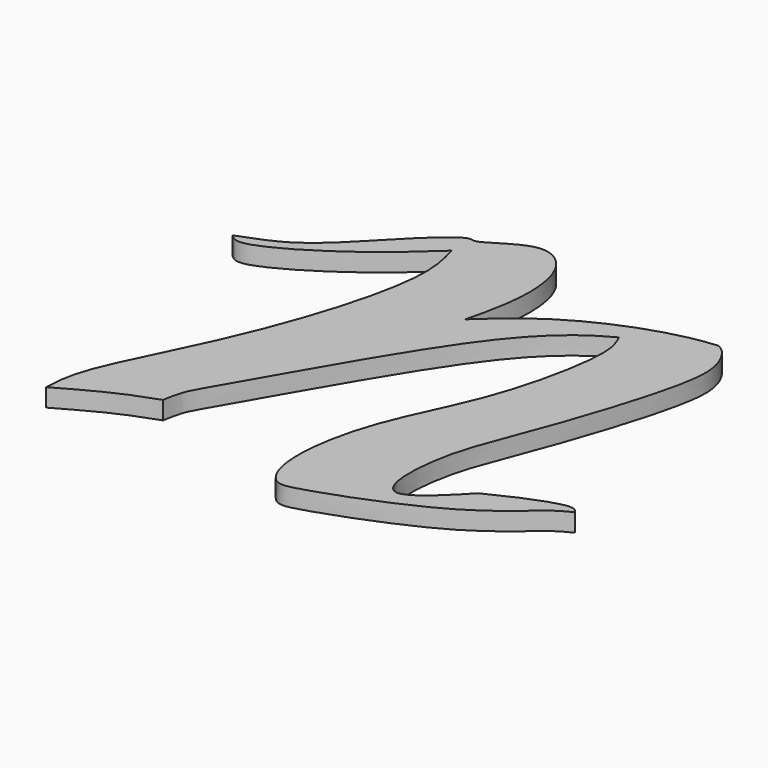
from build123d import *

# Parameters (mm, degrees)
F1_DEPTH = 1.27


with BuildPart() as f1:
    # F0 (on Top) → F1 (new body)
    with BuildSketch(Plane.XY):
        with BuildLine():
            add(Edge.make_bspline(
                [(-52.4508655071, 6.1483993195), (-51.2502191119, 6.5833559306), (-48.610067998, 7.5398000476), (-45.1537688991, 11.5657016835), (-42.1221285518, 14.2639547296), (-41.4797872222, 13.6589606847), (-38.3325889337, 16.3361943188), (-35.5940023997, 14.2825197488), (-35.261365319, 10.1330341314), (-35.8770305222, 7.5959185556), (-36.1851528287, 6.3261669129)],
                knots=[0, 0, 0, 0, 0.1372868732, 0.3018857948, 0.4320781684, 0.4826123225, 0.6113012585, 0.7243305254, 0.8620355448, 1, 1, 1, 1], degree=3))
            add(Edge.make_bspline(
                [(-41.8784059584, 12.2591648251), (-43.2035777029, 11.0424745594), (-45.8645201544, 8.5993627199), (-51.4709954753, 5.2764848477), (-52.2344171246, 5.9557977795), (-52.4508655071, 6.1483993195)],
                knots=[0, 0, 0, 0, 0.415475042, 0.8342731283, 1, 1, 1, 1], degree=3))
            add(Edge.make_bspline(
                [(-49.1498820484, -14.3919382244), (-49.1125346164, -13.6053932891), (-49.0106668484, -11.4600362255), (-45.1288450139, -4.3490160217), (-42.1471910649, 3.8192423652), (-41.1482980871, 9.4912585756), (-41.6660484124, 11.4540977905), (-41.8784059584, 12.2591648251)],
                knots=[0, 0, 0, 0, 0.1423864967, 0.3883692625, 0.6532312068, 0.8577712724, 1, 1, 1, 1], degree=3))
            add(Edge.make_bspline(
                [(-43.1774519384, -11.5617187694), (-43.998762078, -11.85581333), (-45.7999994043, -12.5008000098), (-47.9695703265, -13.7256066422), (-49.1498820484, -14.3919382244)],
                knots=[0, 0, 0, 0, 0.4559699755, 1, 1, 1, 1], degree=3))
            add(Edge.make_bspline(
                [(-28.235655278, 9.9361538887), (-28.7664288434, 9.6434948265), (-30.2263777512, 8.8385050793), (-34.5349882921, 4.9408613511), (-41.6649095563, -8.140053331), (-42.8994179386, -9.9963225112), (-43.0917394557, -11.0791375028), (-43.1774519384, -11.5617187694)],
                knots=[0, 0, 0, 0, 0.1350670561, 0.3715162432, 0.7429553945, 0.8854421926, 1, 1, 1, 1], degree=3))
            add(Edge.make_bspline(
                [(-17.096715048, -7.84580037), (-17.4513469516, -8.0189865688), (-18.4914787774, -8.5269399575), (-21.9283323937, -12.0423903604), (-30.3865666046, -15.1753993302), (-32.3438493626, -15.5345411735), (-33.6389238212, -13.0729438462), (-32.7601438824, -6.734538083), (-29.4073019728, -0.7504723717), (-27.889647365, 5.345677188), (-27.6453935787, 8.6650178544), (-28.0704373162, 9.5803549186), (-28.235655278, 9.9361538887)],
                knots=[0, 0, 0, 0, 0.0586458221, 0.1720076095, 0.3252070804, 0.3892201763, 0.463319733, 0.589721352, 0.7258343334, 0.8532202638, 0.9429455214, 1, 1, 1, 1], degree=3))
            add(Edge.make_bspline(
                [(-22.6832609624, -9.4095906243), (-21.7874807772, -8.9691632045), (-20.0973127621, -8.1381598511), (-17.5401285644, -7.2796780422), (-17.204454687, -7.7082452144), (-17.096715048, -7.84580037)],
                knots=[0, 0, 0, 0, 0.4336536445, 0.8182225189, 1, 1, 1, 1], degree=3))
            add(Edge.make_bspline(
                [(-23.3199801296, 12.582863681), (-22.8286618385, 12.351984913), (-22.0032715443, 11.1889062988), (-21.5213979685, 8.3082835565), (-25.0430262887, -2.1274160768), (-26.8859807323, -6.2750961406), (-27.3870265293, -11.0076554203), (-26.126493392, -12.8805163249), (-23.2795270457, -10.0527414778), (-22.8351895684, -9.5734499825), (-22.6832609624, -9.4095906243)],
                knots=[0, 0, 0, 0, 0.0888765465, 0.2037122912, 0.4280237786, 0.5838745432, 0.727409814, 0.8073672988, 0.9343637249, 1, 1, 1, 1], degree=3))
            add(Edge.make_bspline(
                [(-36.1851528287, 6.3261669129), (-34.8696896248, 7.5624965993), (-31.9483366254, 10.1300658236), (-26.2712929398, 12.3433507979), (-23.3199801296, 12.582863681)],
                knots=[0, 0, 0, 0, 0.4431696114, 1, 1, 1, 1], degree=3))
        make_face()
    extrude(amount=F1_DEPTH)


solid = f1.part
